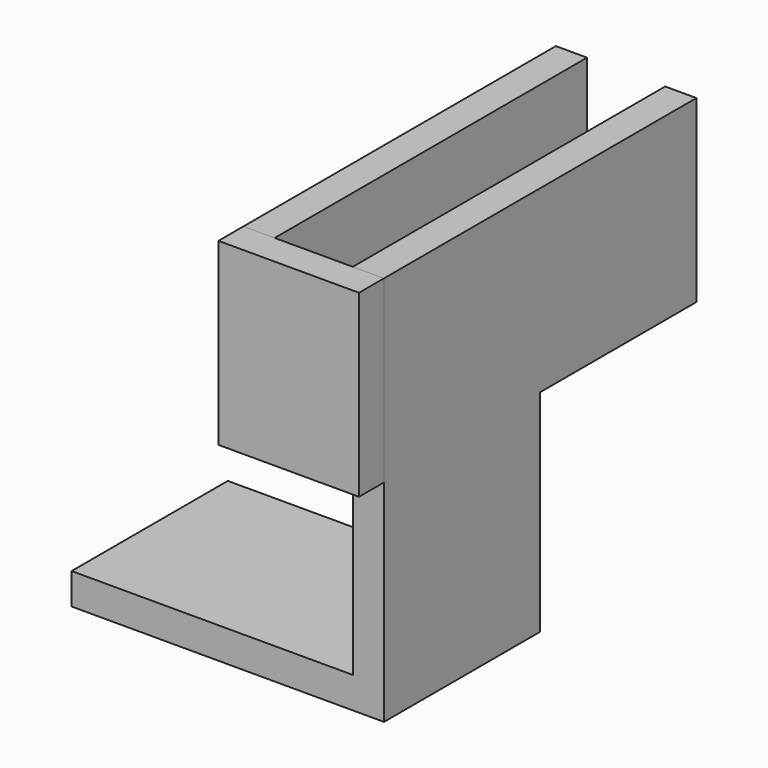
from build123d import *

# Parameters (mm, degrees)
F0_W     = 4
F0_H     = 23
F1_DEPTH = 50
F0_W_2   = 36
F0_H_2   = 4
F2_DEPTH = 25
F0_W_3   = 10
F3_DEPTH = 4


with BuildPart() as f1:
    # F0 (on Front) → F1 (new body)
    with BuildSketch(Plane.XZ):
        with Locations((2, 11.5)):
            Rectangle(F0_W, F0_H)
        with Locations((16, 11.5)):
            Rectangle(F0_W, F0_H)
    extrude(amount=-F1_DEPTH)

    # F0 (on Front) → F2 (join)
    with BuildSketch(Plane.XZ):
        with Locations((-4, -25)):
            Rectangle(F0_W_2, F0_H_2)
        Polygon((18, 0), (14, 0), (14, -23), (14, -27), (18, -27), align=None)
    extrude(amount=-F2_DEPTH)


with BuildPart() as f3:
    # F0 (on Front) → F3 (new body)
    with BuildSketch(Plane.XZ):
        with Locations((9, 11.5)):
            Rectangle(F0_W_3, F0_H)
        with Locations((2, 11.5)):
            Rectangle(F0_W, F0_H)
        with Locations((16, 11.5)):
            Rectangle(F0_W, F0_H)
    extrude(amount=F3_DEPTH)


solid = Compound([f1.part, f3.part])
